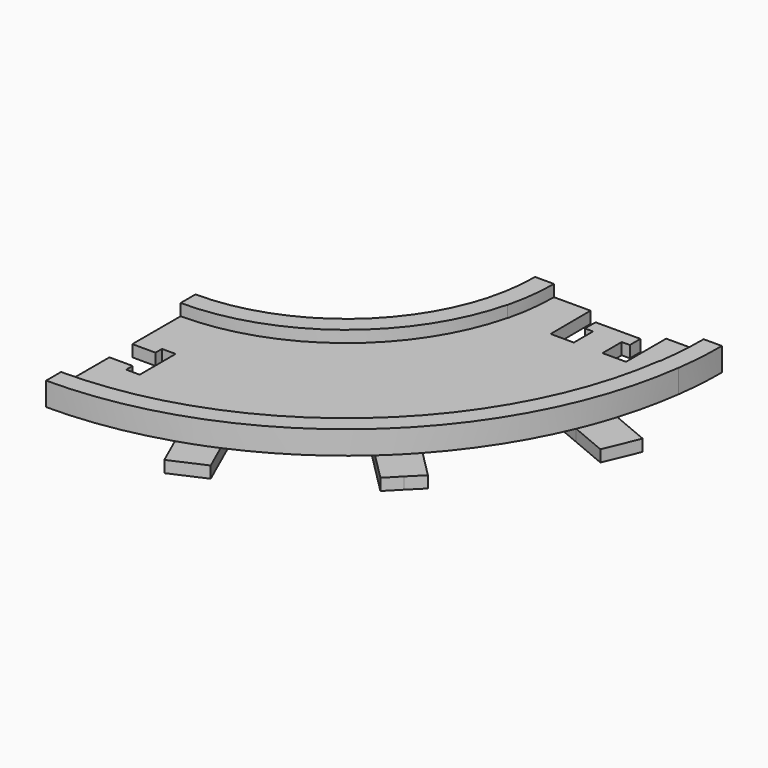
from build123d import *

# Parameters (mm, degrees)
F1_DEPTH  = 3.175
F2_W      = 14.0813224944
F2_H      = 13.6506203337
F3_DEPTH  = 3.175
F5_DEPTH  = 3.175
F2_W_2    = 4.1719265282
F6_DEPTH  = 25.4
F8_DEPTH  = 6.35
F9_DEPTH  = 3.175
F11_DEPTH = 25.4
F13_DEPTH = 3.175


with BuildPart() as f1:
    # F0 (on Top) → F1 (new body)
    with BuildSketch(Plane.XY):
        with BuildLine():
            Line((0, -51.2956328023), (0, -102.09075941))
            ThreePointArc((0, -102.09075941), (72.1890682753, -72.1890682753), (102.09075941, 0))
            Line((102.09075941, 0), (51.2956328023, 0))
            ThreePointArc((51.2956328023, 0), (36.2714897998, -36.2714897998), (0, -51.2956328023))
        make_face()
    extrude(amount=F1_DEPTH)

    # F2 (on Top) → F3 (join)
    with BuildSketch(Plane.XY):
        Polygon((70.5449951161, -7.1183972853), (72.7547951161, -7.1183972853), (72.7547951161, -13.6506203337), (80.5461628969, -13.6506203337), (80.5461628969, -7.1183972853), (82.7559628969, -7.1183972853), (82.7559628969, -3.5022496107), (70.5449951161, -3.5022496107), align=None)
        Polygon((51.7481602728, -13.6506203337), (66.4398123863, -13.6506203337), (66.3695515009, 0), (51.7481602728, 0), align=None)
        with Locations((93.9881238623, -6.8253101669)):
            Rectangle(F2_W, F2_H)
    extrude(amount=F3_DEPTH)

    # F4 (on face) → F5 (join)
    with BuildSketch(Plane.XY.offset(3.175)):
        with BuildLine():
            ThreePointArc((0, -56.3756328023), (39.8635922482, -39.8635922482), (56.3756328023, 0))
            Line((56.3756328023, 0), (51.3330261441, 0))
            ThreePointArc((51.3330261441, 0), (36.2979308853, -36.2979308853), (0, -51.3330261441))
            Line((0, -51.3330261441), (0, -56.3756328023))
        make_face()
        with BuildLine():
            Line((102.09075941, 0), (97.01075941, 0))
            ThreePointArc((97.01075941, 0), (68.5969658269, -68.5969658269), (0, -97.01075941))
            Line((0, -97.01075941), (0, -102.09075941))
            ThreePointArc((0, -102.09075941), (72.1890682753, -72.1890682753), (102.09075941, 0))
        make_face()
    extrude(amount=F5_DEPTH)

    # F2 (on Top) → F6 (cut)
    with BuildSketch(Plane.XY):
        Polygon((51.7481602728, -13.6506203337), (66.4398123863, -13.6506203337), (66.3695515009, 0), (51.7481602728, 0), align=None)
        Polygon((72.7547951161, -13.6506203337), (72.7547951161, -7.1183972853), (70.5449951161, -7.1183972853), (70.5449951161, -3.5022496107), (82.7559628969, -3.5022496107), (82.7559628969, -7.1183972853), (80.5461628969, -7.1183972853), (80.5461628969, -13.6506203337), (86.9474626151, -13.6506203337), (86.9474626151, 0), (76.6565515009, 0), (66.3695515009, 0), (66.4398123863, -13.6506203337), align=None)
        with Locations((93.9881238623, -6.8253101669)):
            Rectangle(F2_W, F2_H)
        with Locations((49.6621970087, -6.8253101669)):
            Rectangle(F2_W_2, F2_H)
    extrude(amount=F6_DEPTH, mode=Mode.SUBTRACT)

    # F7 (on Top) → F8 (join)
    with BuildSketch(Plane.XY):
        with BuildLine():
            ThreePointArc((54.7619331998, -13.660392724), (56.0189261095, -6.8815386855), (56.4400182242, 0))
            Line((56.4400182242, 0), (51.3051767249, 0))
            ThreePointArc((51.3051767249, 0), (50.8400637591, -6.8926827684), (49.4531579316, -13.660392724))
            Line((49.4531579316, -13.660392724), (54.7619331998, -13.660392724))
        make_face()
        with BuildLine():
            Line((102.1051767249, 0), (97.1390098326, 0))
            ThreePointArc((97.1390098326, 0), (96.8973822865, -6.8472284381), (96.1737017167, -13.660392724))
            Line((96.1737017167, -13.660392724), (101.1872560388, -13.660392724))
            ThreePointArc((101.1872560388, -13.660392724), (101.8754380952, -6.8455990928), (102.1051767249, 0))
        make_face()
    extrude(amount=F8_DEPTH)

    # F2 (on Top) → F9 (join)
    with BuildSketch(Plane.XY):
        with Locations((93.9881238623, -6.8253101669)):
            Rectangle(F2_W, F2_H)
        Polygon((51.7481602728, -13.6506203337), (66.4398123863, -13.6506203337), (66.3695515009, 0), (51.7481602728, 0), align=None)
    extrude(amount=F9_DEPTH)

    # F10 (on face) → F11 (cut)
    with BuildSketch(Plane.XY.offset(3.175)):
        Polygon((6.3110076786, -72.776100911), (0, -72.776100911), (0, -80.5674686917), (6.3110076786, -80.5674686917), (6.3110076786, -82.7772686917), (10.0084030033, -82.7772686917), (10.0084030033, -70.566300911), (6.3110076786, -70.566300911), align=None)
    extrude(amount=-F11_DEPTH, mode=Mode.SUBTRACT)

    # F12 (on face) → F13 (join)
    with BuildSketch(Plane(origin=(0, 0, 0), x_dir=(1, 0, 0), z_dir=(0, 0, -1))):
        with BuildLine():
            ThreePointArc((39.6434592285, 32.5520826521), (37.980845771, 34.4774897449), (36.2248193412, 36.3181002847))
            Line((36.2248193412, 36.3181002847), (29.0498583475, 29.1246633635))
            Line((29.0498583475, 29.1246633635), (32.646576808, 25.5371828667))
            Line((32.646576808, 25.5371828667), (39.6434592285, 32.5520826521))
        make_face()
        with BuildLine():
            Line((29.0498583475, 29.1246633635), (36.2248193412, 36.3181002847))
            ThreePointArc((36.2248193412, 36.3181002847), (34.3796988436, 38.0693873344), (32.4500223073, 39.7270436459))
            Line((32.4500223073, 39.7270436459), (25.4531398869, 32.7121438604))
            Line((25.4531398869, 32.7121438604), (29.0498583475, 29.1246633635))
        make_face()
        with BuildLine():
            Line((36.2248193412, 36.3181002847), (72.0961827352, 72.2818344532))
            ThreePointArc((72.0961827352, 72.2818344532), (70.2749350461, 74.0537417095), (68.4101530773, 75.7797737714))
            Line((68.4101530773, 75.7797737714), (32.4500223073, 39.7270436459))
            ThreePointArc((32.4500223073, 39.7270436459), (34.3796988436, 38.0693873344), (36.2248193412, 36.3181002847))
        make_face()
        with BuildLine():
            ThreePointArc((75.6035899985, 68.6048127777), (73.8727679087, 70.4651496728), (72.0961827352, 72.2818344532))
            Line((72.0961827352, 72.2818344532), (36.2248193412, 36.3181002847))
            ThreePointArc((36.2248193412, 36.3181002847), (37.980845771, 34.4774897449), (39.6434592285, 32.5520826521))
            Line((39.6434592285, 32.5520826521), (75.6035899985, 68.6048127777))
        make_face()
        with BuildLine():
            Line((79.271143729, 79.4752713743), (72.0961827352, 72.2818344532))
            ThreePointArc((72.0961827352, 72.2818344532), (73.8727679087, 70.4651496728), (75.6035899985, 68.6048127777))
            Line((75.6035899985, 68.6048127777), (82.8785053866, 75.8984614814))
            Line((82.8785053866, 75.8984614814), (79.271143729, 79.4752713743))
        make_face()
        with BuildLine():
            ThreePointArc((68.4101530773, 75.7797737714), (70.2749350461, 74.0537417095), (72.0961827352, 72.2818344532))
            Line((72.0961827352, 72.2818344532), (79.271143729, 79.4752713743))
            Line((79.271143729, 79.4752713743), (75.7328631666, 83.1213402502))
            Line((75.7328631666, 83.1213402502), (68.4101530773, 75.7797737714))
        make_face()
        with BuildLine():
            Line((20.0341812257, 47.2215366883), (40.6881574418, 93.6322433828))
            ThreePointArc((40.6881574418, 93.6322433828), (35.9596571955, 95.5480309127), (31.1413521737, 97.2251991086))
            Line((31.1413521737, 97.2251991086), (10.2418471319, 50.2627746142))
            ThreePointArc((10.2418471319, 50.2627746142), (15.2141958482, 48.9874493037), (20.0341812257, 47.2215366883))
        make_face()
        with BuildLine():
            ThreePointArc((31.1413521737, 97.2251991086), (35.9596571955, 95.5480309127), (40.6881574418, 93.6322433828))
            Line((40.6881574418, 93.6322433828), (44.0618023276, 101.2130230665))
            Line((44.0618023276, 101.2130230665), (34.7585338749, 105.353220427))
            Line((34.7585338749, 105.353220427), (31.1413521737, 97.2251991086))
        make_face()
        with BuildLine():
            Line((16.5176168084, 39.3196083605), (20.0341812257, 47.2215366883))
            ThreePointArc((20.0341812257, 47.2215366883), (15.2141958482, 48.9874493037), (10.2418471319, 50.2627746142))
            Line((10.2418471319, 50.2627746142), (7.7137911807, 44.5820833017))
            Line((7.7137911807, 44.5820833017), (16.5176168084, 39.3196083605))
        make_face()
        with BuildLine():
            ThreePointArc((49.4459554372, 13.6506203337), (48.462460254, 16.8116593685), (47.2771132537, 19.902675875))
            Line((47.2771132537, 19.902675875), (38.7149937451, 16.3121093065))
            Line((38.7149937451, 16.3121093065), (43.1567628434, 7.0787111473))
            Line((43.1567628434, 7.0787111473), (50.3058721439, 10.0767249947))
            ThreePointArc((50.3058721439, 10.0767249947), (49.9128620494, 11.8712830314), (49.4558563093, 13.6506203337))
            Line((49.4558563093, 13.6506203337), (49.4459554372, 13.6506203337))
        make_face()
        with BuildLine():
            ThreePointArc((97.6098508897, 29.9138791566), (95.9858944102, 34.7740022313), (94.1201154327, 39.5465172658))
            Line((94.1201154327, 39.5465172658), (47.2771132537, 19.902675875))
            ThreePointArc((47.2771132537, 19.902675875), (48.462460254, 16.8116593685), (49.4459554372, 13.6506203337))
            Line((49.4459554372, 13.6506203337), (49.4558563093, 13.6506203337))
            ThreePointArc((49.4558563093, 13.6506203337), (49.9128620494, 11.8712830314), (50.3058721439, 10.0767249947))
            Line((50.3058721439, 10.0767249947), (97.6098508897, 29.9138791566))
        make_face()
        with BuildLine():
            Line((104.0109246969, 43.6942763627), (94.1201154327, 39.5465172658))
            ThreePointArc((94.1201154327, 39.5465172658), (95.9858944102, 34.7740022313), (97.6098508897, 29.9138791566))
            Line((97.6098508897, 29.9138791566), (107.9681979582, 34.2577025116))
            Line((107.9681979582, 34.2577025116), (104.0109246969, 43.6942763627))
        make_face()
    extrude(amount=F13_DEPTH)


solid = f1.part
